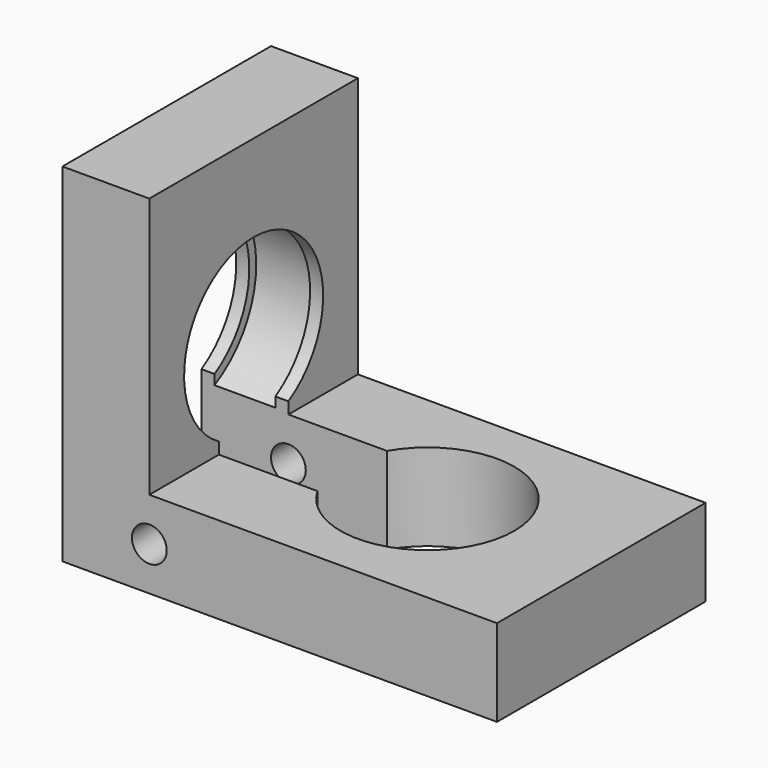
from build123d import *

# Parameters (mm, degrees)
CYLINDER_R              = 10
CYLINDER_DEPTH          = 10
CYLINDER001_R           = 2
CYLINDER001_DEPTH       = 30
CYLINDER001_ROLL_ANGLE  = -90
CYLINDER002_R           = 11
CYLINDER002_DEPTH       = 7
CYLINDER002_PITCH_ANGLE = 90
CYLINDER003_R           = 10
CYLINDER003_DEPTH       = 10
CYLINDER003_PITCH_ANGLE = 90
BOX001_W                = 25
BOX001_H                = 10
BOX001_DEPTH            = 15
BOX002_W                = 10
BOX002_H                = 30
BOX002_DEPTH            = 40
BOX_W                   = 40
BOX_H                   = 30
BOX_DEPTH               = 10


with BuildPart() as cylinder:
    # Cylinder → Cylinder (new body)
    with BuildSketch(Plane.XY.offset(-5)):
        Circle(CYLINDER_R)
    extrude(amount=CYLINDER_DEPTH)


with BuildPart() as cylinder001:
    # Cylinder001 → Cylinder001 (new body)
    with BuildSketch(Plane.XY):
        Circle(CYLINDER001_R)
    extrude(amount=CYLINDER001_DEPTH)


with BuildPart() as cylinder001_1:
    # Cylinder001 roll: moved
    add(cylinder001.part.rotate(Axis((0, 0, 0), (1, 0, 0)), CYLINDER001_ROLL_ANGLE))


with BuildPart() as cylinder001_2:
    # Cylinder001 placement: moved
    add(cylinder001_1.part.moved(Location((-20, -15, 0))))


with BuildPart() as bearing_cylinder:
    # Cylinder002 → Cylinder002 (new body)
    with BuildSketch(Plane.XY):
        Circle(CYLINDER002_R)
    extrude(amount=CYLINDER002_DEPTH)


with BuildPart() as bearing_cylinder_1:
    # Cylinder002 pitch: moved
    add(bearing_cylinder.part.rotate(Axis((0, 0, 0), (0, 1, 0)), CYLINDER002_PITCH_ANGLE))


with BuildPart() as bearing_cylinder_2:
    # Cylinder002 placement: moved
    add(bearing_cylinder_1.part.moved(Location((-28.5, 0, 15))))


with BuildPart() as bearing_cylinder_outer:
    # Cylinder003 → Cylinder003 (new body)
    with BuildSketch(Plane.XY):
        Circle(CYLINDER003_R)
    extrude(amount=CYLINDER003_DEPTH)


with BuildPart() as bearing_cylinder_outer_1:
    # Cylinder003 pitch: moved
    add(bearing_cylinder_outer.part.rotate(Axis((0, 0, 0), (0, 1, 0)), CYLINDER003_PITCH_ANGLE))


with BuildPart() as bearing_cylinder_outer_2:
    # Cylinder003 placement: moved
    add(bearing_cylinder_outer_1.part.moved(Location((-30, 0, 15))))


with BuildPart() as negative_fusion:
    # Box001 → Box001 (new body)
    with BuildSketch(Plane(origin=(-30, -5, -5), x_dir=(1, 0, 0), z_dir=(0, 0, 1))):
        with Locations((12.5, 5)):
            Rectangle(BOX001_W, BOX001_H)
    extrude(amount=BOX001_DEPTH)

    # Fusion: union Cylinder, Cylinder001, Bearing Cylinder, Bearing Cylinder Outer
    add(cylinder.part)
    add(cylinder001_2.part)
    add(bearing_cylinder_2.part)
    add(bearing_cylinder_outer_2.part)


with BuildPart() as cube002:
    # Box002 → Box002 (new body)
    with BuildSketch(Plane(origin=(-30, -15, -5), x_dir=(1, 0, 0), z_dir=(0, 0, 1))):
        with Locations((5, 15)):
            Rectangle(BOX002_W, BOX002_H)
    extrude(amount=BOX002_DEPTH)


with BuildPart() as cut:
    # Box → Box (new body)
    with BuildSketch(Plane(origin=(-20, -15, -5), x_dir=(1, 0, 0), z_dir=(0, 0, 1))):
        with Locations((20, 15)):
            Rectangle(BOX_W, BOX_H)
    extrude(amount=BOX_DEPTH)

    # Fusion001: union Cube002
    add(cube002.part)

    # Cut: cut Negative Fusion
    add(negative_fusion.part, mode=Mode.SUBTRACT)


solid = cut.part
